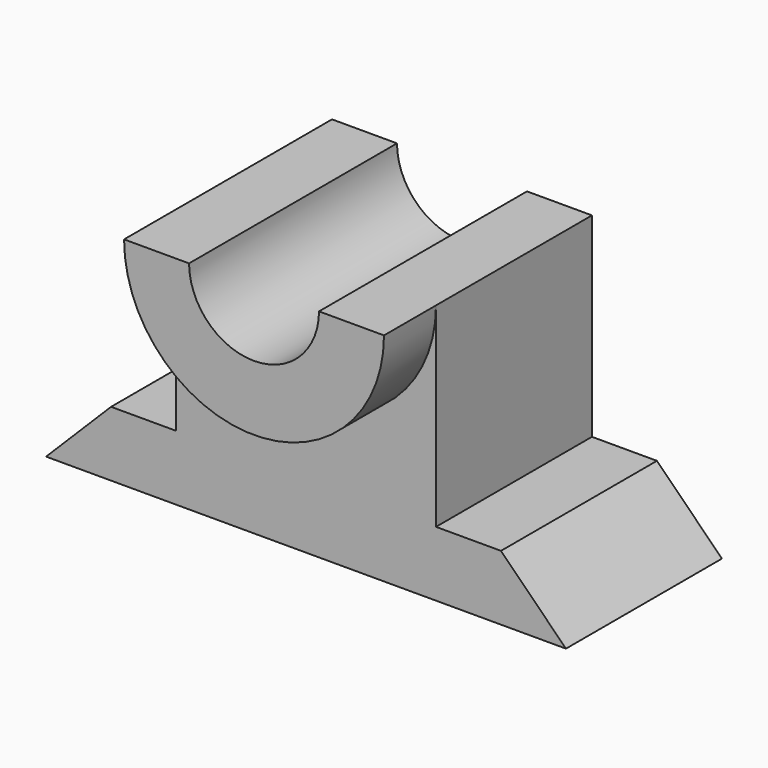
from build123d import *

# Parameters (mm, degrees)
F1_DEPTH = 762
F3_DEPTH = 254
F4_DEPTH = 1143


with BuildPart() as f1:
    # F0 (on Front) → F1 (new body)
    with BuildSketch(Plane.XZ):
        Polygon((254, 254), (0, 0), (2032, 0), (1778, 254), (1524, 254), (1524, 1016), (508, 1016), (508, 254), align=None)
    extrude(amount=F1_DEPTH)

    # F2 (on face) → F3 (join)
    with BuildSketch(Plane.XZ.offset(762)):
        with BuildLine():
            Line((762, 1016), (508, 1016))
            ThreePointArc((508, 1016), (1016, 508), (1524, 1016))
            Line((1524, 1016), (1270, 1016))
            ThreePointArc((1270, 1016), (1016, 762.9418953538), (762, 1016))
        make_face()
    extrude(amount=F3_DEPTH)

    # F4 (cut): a face of the model
    f4_faces = [f1.faces().sort_by_distance(p)[0] for p in [
        (1016, -762, 908.631847947),
    ]]
    extrude(f4_faces, amount=-F4_DEPTH, mode=Mode.SUBTRACT)


solid = f1.part
